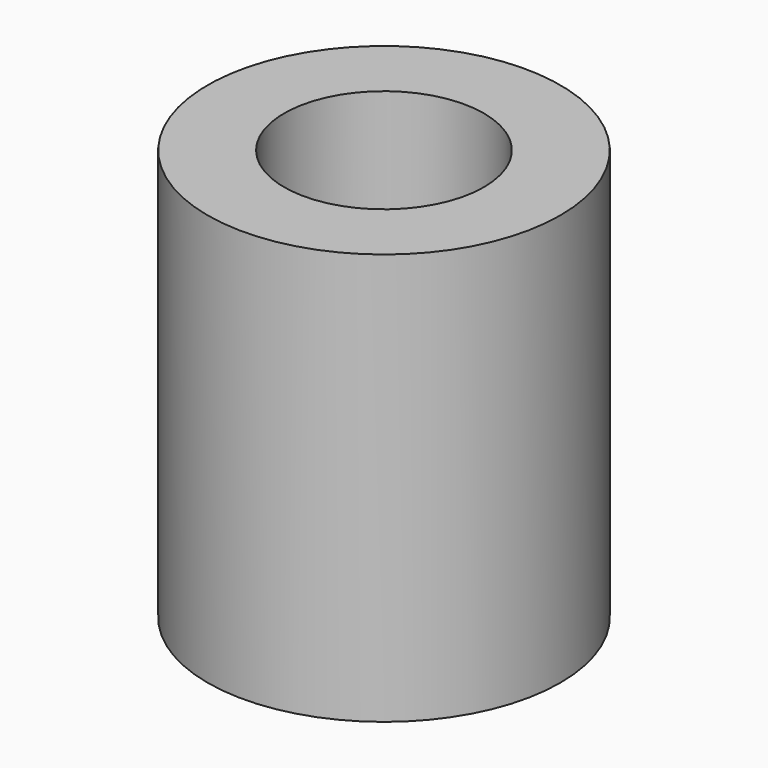
from build123d import *

# Parameters (mm, degrees)
CYLINDER005_R     = 1.7
CYLINDER005_DEPTH = 7
CYLINDER004_R     = 3
CYLINDER004_DEPTH = 7


with BuildPart() as cylinder005:
    # Cylinder005 → Cylinder005 (new body)
    with BuildSketch(Plane(origin=(-32, 0, 0), x_dir=(1, 0, 0), z_dir=(0, 0, 1))):
        Circle(CYLINDER005_R)
    extrude(amount=CYLINDER005_DEPTH)


with BuildPart() as obj1:
    # Cylinder004 → Cylinder004 (new body)
    with BuildSketch(Plane(origin=(-32, 0, 0), x_dir=(1, 0, 0), z_dir=(0, 0, 1))):
        Circle(CYLINDER004_R)
    extrude(amount=CYLINDER004_DEPTH)

    # Cut003: cut Cylinder005
    add(cylinder005.part, mode=Mode.SUBTRACT)


solid = obj1.part
